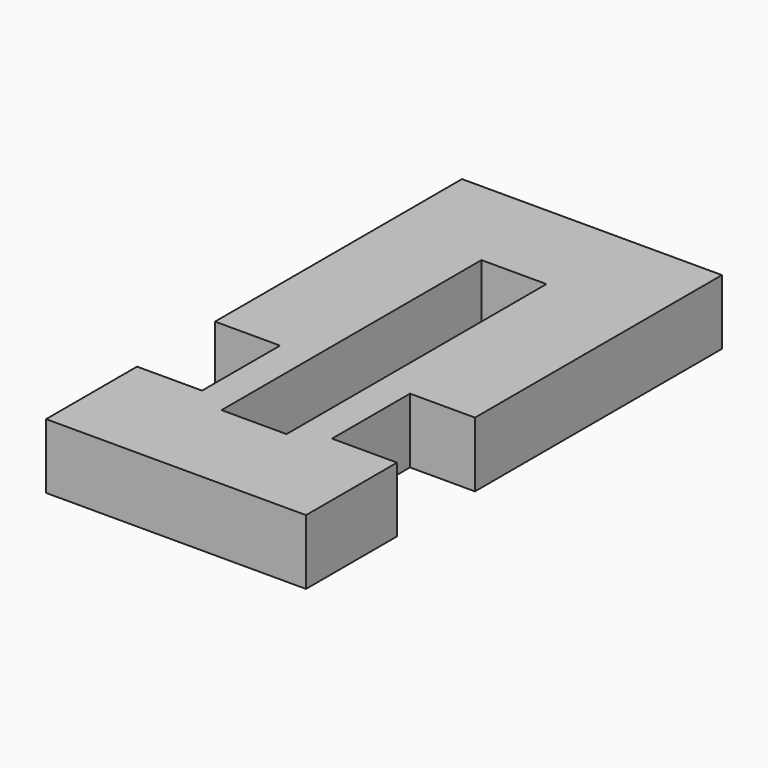
from build123d import *

# Parameters (mm, degrees)
F0_W     = 203.2
F0_H     = 406.4
F1_DEPTH = 50.8
F2_W     = 50.8
F2_H     = 254
F2_H_2   = 76.2
F3_DEPTH = 50.801


with BuildPart() as f1:
    # F0 (on Top) → F1 (new body)
    with BuildSketch(Plane.XY):
        Rectangle(F0_W, F0_H)
    extrude(amount=F1_DEPTH)

    # F2 (on face) → F3 (cut, through all)
    with BuildSketch(Plane.XY.offset(50.8)):
        Rectangle(F2_W, F2_H)
        with Locations((-76.2, -76.2)):
            Rectangle(F2_W, F2_H_2)
        with Locations((76.2, -76.2)):
            Rectangle(F2_W, F2_H_2)
    extrude(amount=-F3_DEPTH, mode=Mode.SUBTRACT)


solid = f1.part
